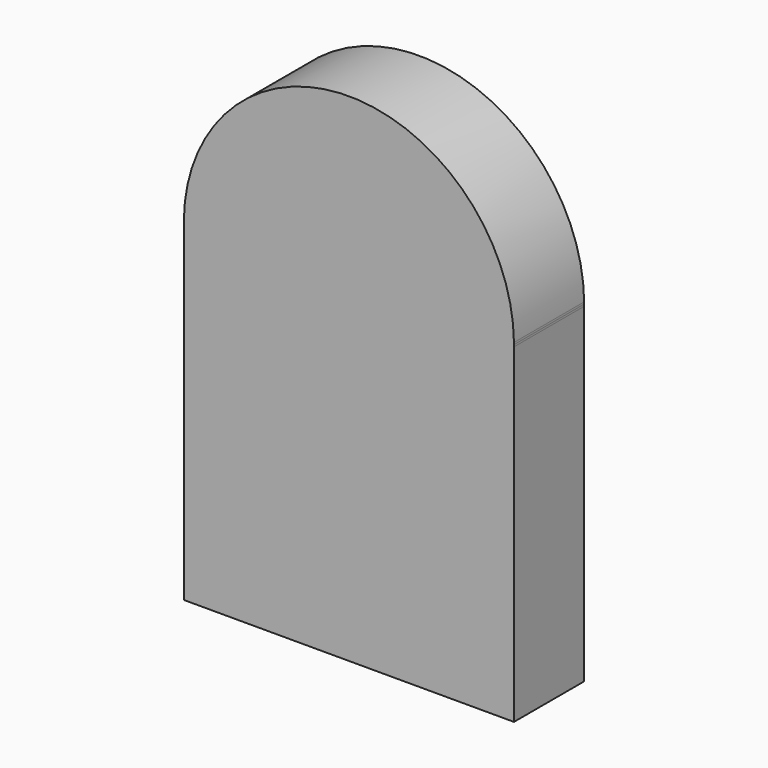
from build123d import *

# Parameters (mm, degrees)
F1_DEPTH = 25.4


with BuildPart() as f1:
    # F0 (on Front) → F1 (new body)
    with BuildSketch(Plane.XZ):
        with BuildLine():
            ThreePointArc((47.775757, 48.351366), (0, 95.558366), (-47.775757, 48.351366))
            Line((-47.775757, 48.351366), (47.775757, 48.351366))
        make_face()
        with BuildLine():
            ThreePointArc((47.775757, 47.207), (0, 0), (-47.775757, 47.207))
            Line((-47.775757, 47.207), (-47.775757, -48.351366))
            Line((-47.775757, -48.351366), (47.775757, -48.351366))
            Line((47.775757, -48.351366), (47.775757, 47.207))
        make_face()
        with BuildLine():
            Line((-47.775757, 47.207), (-47.775757, 48.351366))
            ThreePointArc((-47.775757, 48.351366), (-47.779183, 47.779183), (-47.775757, 47.207))
        make_face()
        with BuildLine():
            ThreePointArc((47.779183, 47.779183), (47.778326, 48.06528), (47.775757, 48.351366))
            Line((47.775757, 48.351366), (47.775757, 47.207))
            ThreePointArc((47.775757, 47.207), (47.778326, 47.493086), (47.779183, 47.779183))
        make_face()
        with BuildLine():
            Line((47.775757, 48.351366), (-47.775757, 48.351366))
            Line((-47.775757, 48.351366), (-47.775757, 47.207))
            ThreePointArc((-47.775757, 47.207), (0, 0), (47.775757, 47.207))
            Line((47.775757, 47.207), (47.775757, 48.351366))
        make_face()
    extrude(amount=-F1_DEPTH)


solid = f1.part
